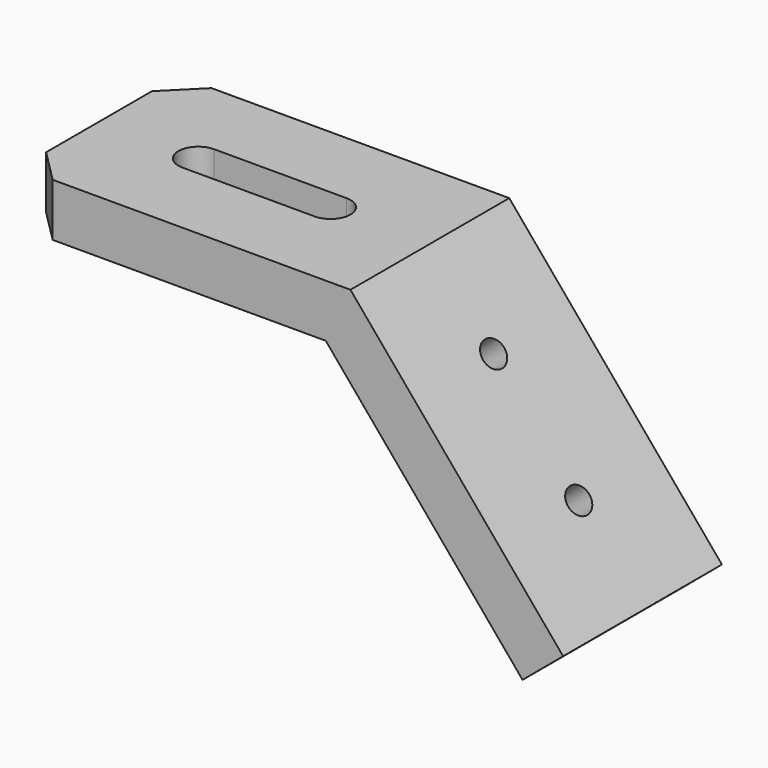
from build123d import *

# Parameters (mm, degrees)
F1_DEPTH = 15
F3_DEPTH = 8.001
F5_D     = 4
F6_SIZE  = 5


with BuildPart() as f1:
    # F0 (on Front) → F1 (new body, symmetric)
    with BuildSketch(Plane.XZ):
        Polygon((0, 8), (0, 0), (46.2695387348, 0), (76.0110249394, -35.4445230334), (82.1393804843, -30.3022221559), (50, 8), align=None)
    extrude(amount=F1_DEPTH, both=True)

    # F2 (on Top) → F3 (cut, through all)
    with BuildSketch(Plane.XY):
        with BuildLine():
            ThreePointArc((15, 3), (12, 0), (15, -3))
            Line((15, -3), (35, -3))
            ThreePointArc((35, -3), (38, 0), (35, 3))
            Line((35, 3), (15, 3))
        make_face()
    extrude(amount=F3_DEPTH, mode=Mode.SUBTRACT)

    # F5 (through all)
    with Locations(Plane(origin=(33.2804354537, 0, 27.9256011146), x_dir=(0, 1, 0), z_dir=(0.7660444431, 0, 0.6427876097))):
        with Locations((0, -61.0110249394), (0, -41.0110249394)):
            Hole(F5_D / 2)

    # F6
    f6_edges = [f1.edges().sort_by_distance(p)[0] for p in [
        (0, 15, 4),
        (0, -15, 4),
    ]]
    chamfer(f6_edges, length=F6_SIZE)


solid = f1.part
